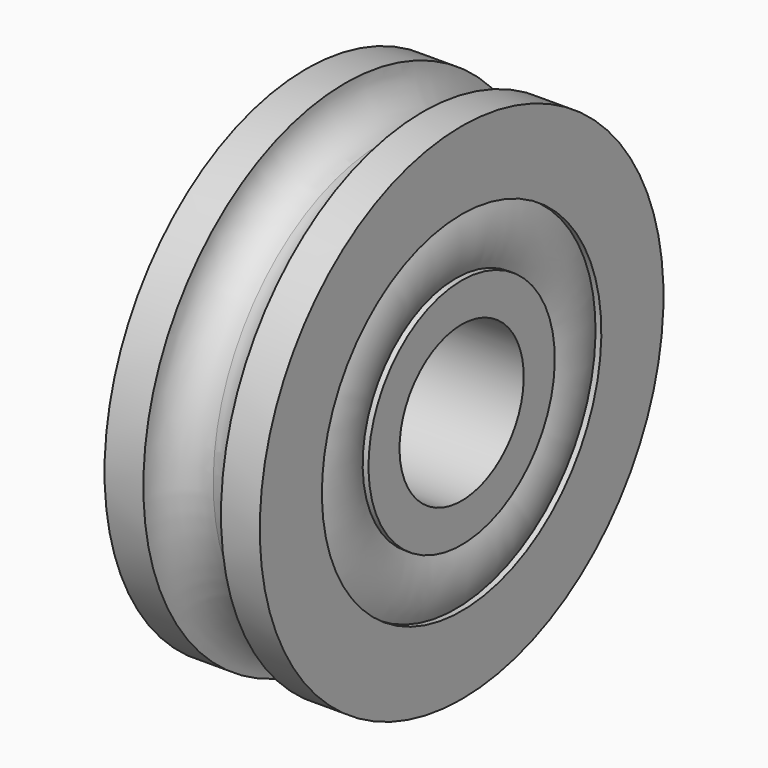
from build123d import *


with BuildPart() as f1:
    # F0 (on Front) → F1 (revolve)
    with BuildSketch(Plane.XZ):
        with BuildLine():
            Line((-2, 2), (0, 2))
            Line((0, 2), (0, 5.5))
            ThreePointArc((0, 5.5), (-0.707107, 5.792893), (-1, 6.5))
            Line((-1, 6.5), (-2, 6.5))
            Line((-2, 6.5), (-2, 4.5))
            Line((-2, 4.5), (-1.85, 4.5))
            ThreePointArc((-1.85, 4.5), (-2, 3.75), (-1.85, 3))
            Line((-1.85, 3), (-2, 3))
            Line((-2, 3), (-2, 2))
        make_face()
    revolve(axis=Axis((-0.379604, 0, 0), (1, 0, 0)))

    # F2: F1 across face


with BuildPart() as f1_1:
    add(f1.part)
    add(f1.part.mirror(Plane.YZ))


solid = f1_1.part
